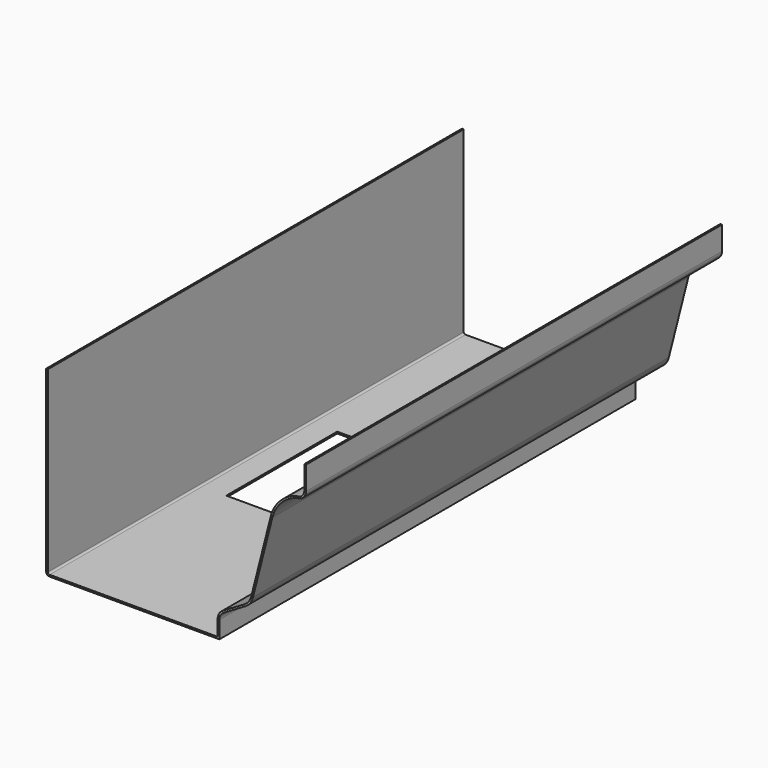
from build123d import *

# Parameters (mm, degrees)
F1_DEPTH = 300
F2_W     = 70
F2_H     = 80
F3_DEPTH = 25
F4_DEPTH = 25
F5_DEPTH = 25
F6_R     = 2.5
F7_DEPTH = 25


with BuildPart() as f1:
    # F0 (on Front) → F1 (new body)
    with BuildSketch(Plane.XZ):
        with BuildLine():
            Line((75, 38.914216), (75, 52.5))
            Line((75, 52.5), (74, 52.5))
            Line((74, 52.5), (74, 38.875))
            ThreePointArc((74, 38.875), (73.361451, 36.706903), (71.649678, 35.231024))
            ThreePointArc((71.649678, 35.231024), (60.8185, 29.988223), (54.643786, 19.659898))
            Line((54.643786, 19.659898), (43.416317, -24.63337))
            ThreePointArc((43.416317, -24.63337), (41.948954, -27.705545), (39.413109, -29.977308))
            Line((39.413109, -29.977308), (26.950339, -37.332837))
            ThreePointArc((26.950339, -37.332837), (24.789532, -39.524934), (24, -42.5))
            Line((24, -42.5), (24, -51.5))
            Line((24, -51.5), (-73, -51.5))
            ThreePointArc((-73, -51.5), (-73.707107, -51.207107), (-74, -50.5))
            Line((-74, -50.5), (-74, 52.5))
            Line((-74, 52.5), (-75, 52.5))
            Line((-75, 52.5), (-75, -50.5))
            ThreePointArc((-75, -50.5), (-74.414214, -51.914214), (-73, -52.5))
            Line((-73, -52.5), (25, -52.5))
            Line((25, -52.5), (25, -42.5))
            ThreePointArc((25, -42.5), (25.657943, -40.020778), (27.458616, -38.194031))
            Line((27.458616, -38.194031), (39.921386, -30.838502))
            ThreePointArc((39.921386, -30.838502), (42.749295, -28.305091), (44.385661, -24.87908))
            Line((44.385661, -24.87908), (55.613129, 19.414189))
            ThreePointArc((55.613129, 19.414189), (61.539869, 29.29273), (71.932405, 34.263346))
            ThreePointArc((71.932405, 34.263346), (74.173992, 36.121942), (75, 38.914216))
        make_face()
    extrude(amount=F1_DEPTH)

    # F2 (on face) → F3 (cut)
    with BuildSketch(Plane(origin=(0, 0, -52.5), x_dir=(1, 0, 0), z_dir=(0, 0, -1))):
        with Locations((-24, 150)):
            Rectangle(F2_W, F2_H)
    extrude(amount=-F3_DEPTH, mode=Mode.SUBTRACT)

    # F2 (on face) → F4 (cut)
    with BuildSketch(Plane(origin=(0, 0, -52.5), x_dir=(1, 0, 0), z_dir=(0, 0, -1))):
        with Locations((-24, 150)):
            Rectangle(F2_W, F2_H)
    extrude(amount=-F4_DEPTH, mode=Mode.SUBTRACT)

    # F2 (on face) → F5 (cut)
    with BuildSketch(Plane(origin=(0, 0, -52.5), x_dir=(1, 0, 0), z_dir=(0, 0, -1))):
        with Locations((-24, 150)):
            Rectangle(F2_W, F2_H)
    extrude(amount=-F5_DEPTH, mode=Mode.SUBTRACT)

    # F6 (on face) → F7 (cut)
    with BuildSketch(Plane(origin=(0, 0, -52.5), x_dir=(1, 0, 0), z_dir=(0, 0, -1))):
        with Locations((13, 268)):
            Circle(F6_R)
    extrude(amount=-F7_DEPTH, mode=Mode.SUBTRACT)


solid = f1.part
